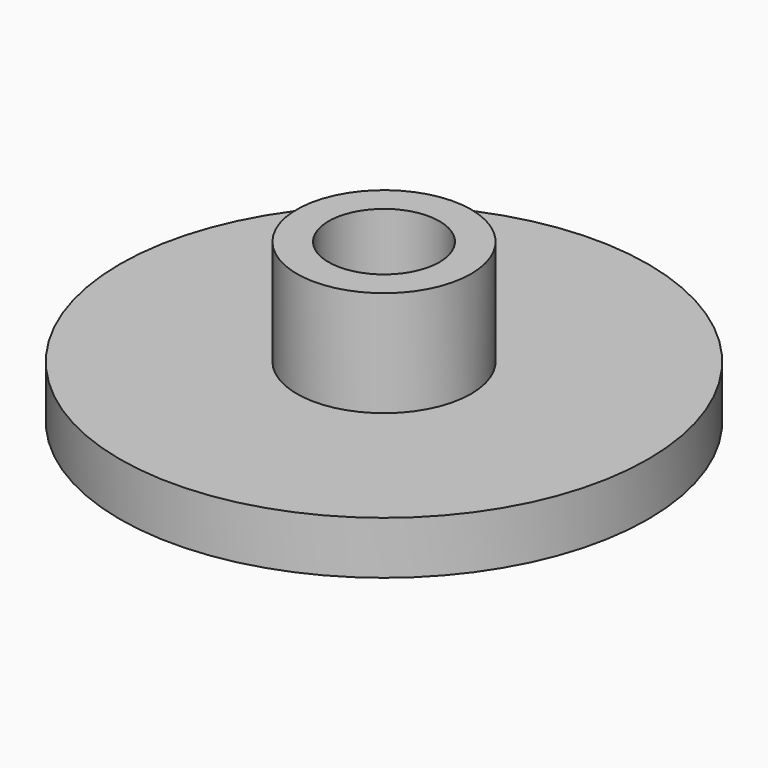
from build123d import *

# Parameters (mm, degrees)
F0_R     = 12.7
F1_DEPTH = 2.54
F2_R     = 4.191
F3_DEPTH = 7.62
F4_R     = 2.667
F5_DEPTH = 7.621


with BuildPart() as f1:
    # F0 (on Top) → F1 (new body)
    with BuildSketch(Plane.XY):
        Circle(F0_R)
    extrude(amount=F1_DEPTH)

    # F2 (on Top) → F3 (join)
    with BuildSketch(Plane.XY):
        Circle(F2_R)
    extrude(amount=F3_DEPTH)

    # F4 (on Top) → F5 (cut, through all)
    with BuildSketch(Plane.XY):
        Circle(F4_R)
    extrude(amount=F5_DEPTH, mode=Mode.SUBTRACT)


solid = f1.part
